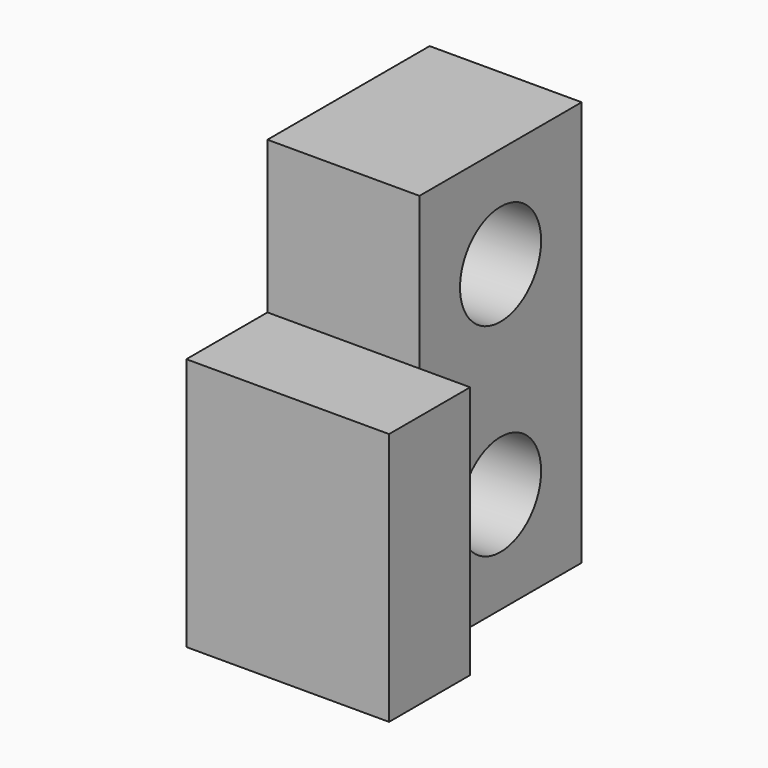
from build123d import *

# Parameters (mm, degrees)
F0_R     = 5
F1_DEPTH = 15
F0_W     = 10
F0_H     = 25
F2_DEPTH = 20
F4_DEPTH = 20
F3_R     = 5
F5_DEPTH = 15


with BuildPart() as f1:
    # F0 (on Right) → F1 (new body)
    with BuildSketch(Plane.YZ):
        Polygon((-20, 0), (0, 0), (0, 40), (-20, 40), (-20, 25), align=None)
        with Locations((-10, 10)):
            Circle(F0_R, mode=Mode.SUBTRACT)
    extrude(amount=F1_DEPTH)

    # F0 (on Right) → F2 (join)
    with BuildSketch(Plane.YZ):
        with Locations((-25, 12.5)):
            Rectangle(F0_W, F0_H)
        with Locations((-10, 10)):
            Circle(F0_R)
    extrude(amount=F2_DEPTH)

    # F4 (cut, through all): a face of the model
    f4_faces = [f1.faces().sort_by_distance(p)[0] for p in [
        (20, -10, 10),
    ]]
    extrude(f4_faces, amount=-F4_DEPTH, mode=Mode.SUBTRACT)

    # F3 (on face) → F5 (cut, through all)
    with BuildSketch(Plane.YZ.offset(15)):
        with Locations((-10, 30)):
            Circle(F3_R)
    extrude(amount=-F5_DEPTH, mode=Mode.SUBTRACT)


solid = f1.part
